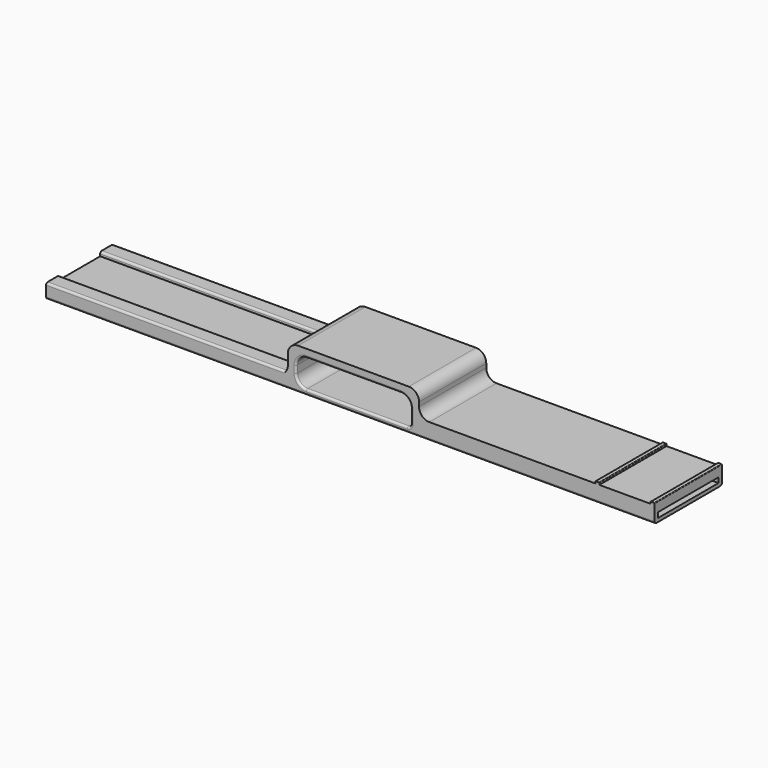
from build123d import *

# Parameters (mm, degrees)
SKETCH037_W                               = 2
SKETCH037_H                               = 41
EXTRUDE036_DEPTH                          = 1
SKETCH032_AS_DRAWN_W                      = 36.96
SKETCH032_AS_DRAWN_H                      = 13
EXTRUDE030_DEPTH                          = 2
EXTRUDE030_ONTO_SKETCH032_ROLL_ANGLE      = 0.005477
EXTRUDE030_ONTO_SKETCH032_PITCH_ANGLE     = -0.011215
EXTRUDE030_ONTO_SKETCH032_PLACEMENT_ANGLE = 89.994139
SKETCH031_W                               = 37
SKETCH031_H                               = 2.5
EXTRUDE029_DEPTH                          = 120
SKETCH030_W                               = 56
SKETCH030_H                               = 13.5
EXTRUDE028_DEPTH                          = 41
FILLET009_R                               = 5
FILLET010_R                               = 1.75
SKETCH036_W                               = 120
SKETCH036_H                               = 8
EXTRUDE035_DEPTH                          = 2
FILLET011_R                               = 1
FILLET012_R                               = 1
FILLET013_R                               = 0.25
FILLET014_R                               = 1


with BuildPart() as velcroborder:
    # Sketch037 → Extrude036 (new body)
    with BuildSketch(Plane.XY.offset(5.5)):
        with Locations((174, 26.5)):
            Rectangle(SKETCH037_W, SKETCH037_H)
        with Locations((147, 26.5)):
            Rectangle(SKETCH037_W, SKETCH037_H)
    extrude(amount=EXTRUDE036_DEPTH)


with BuildPart() as sensorcuts:
    # Sketch032 as drawn → Extrude030 (new)
    with BuildSketch(Plane.XY):
        with Locations((-0.07, -91)):
            Rectangle(SKETCH032_AS_DRAWN_W, SKETCH032_AS_DRAWN_H)
    extrude(amount=EXTRUDE030_DEPTH)


with BuildPart() as sensorcuts_1:
    # Extrude030 onto Sketch032 roll: moved
    add(sensorcuts.part.rotate(Axis((0, 0, 0), (1, 0, 0)), EXTRUDE030_ONTO_SKETCH032_ROLL_ANGLE))


with BuildPart() as sensorcuts_2:
    # Extrude030 onto Sketch032 pitch: moved
    add(sensorcuts_1.part.rotate(Axis((0, 0, 0), (0, 1, 0)), EXTRUDE030_ONTO_SKETCH032_PITCH_ANGLE))


with BuildPart() as sensorcuts_3:
    # Extrude030 onto Sketch032 placement: moved
    add(sensorcuts_2.part.moved(Location((50.768112, 26.489725, 2.608705))).rotate(Axis((50.768112, 26.489725, 2.608705), (0, 0, 1)), EXTRUDE030_ONTO_SKETCH032_PLACEMENT_ANGLE))


with BuildPart() as sensorcuts_4:
    # Extrude030 placement: moved
    add(sensorcuts_3.part.moved(Location((0, 0, -4))))


with BuildPart() as extrude029:
    # Sketch031 → Extrude029 (new body)
    with BuildSketch(Plane.YZ.offset(56)):
        with Locations((26.412533, 0.5)):
            Rectangle(SKETCH031_W, SKETCH031_H)
    extrude(amount=EXTRUDE029_DEPTH)


with BuildPart() as band003:
    # Sketch030 → Extrude028 (new body)
    with BuildSketch(Plane.XZ.offset(-6)):
        Polygon((175, 5.5), (60, 5.5), (60, 17.5), (-4, 17.5), (-4, 2.5), (-122, 2.5), (-122, -2.5), (175, -2.5), align=None)
        with Locations((28, 6.75)):
            Rectangle(SKETCH030_W, SKETCH030_H, mode=Mode.SUBTRACT)
    extrude(amount=-EXTRUDE028_DEPTH)

    # Cut002: cut Extrude029
    add(extrude029.part, mode=Mode.SUBTRACT)

    # Cut003: cut sensorCuts
    add(sensorcuts_4.part, mode=Mode.SUBTRACT)

    # Fillet009
    fillet009_edges = [band003.edges().sort_by_distance(p)[0] for p in [
        (60, 26.5, 5.5),
        (60, 26.5, 17.5),
        (-4, 26.5, 17.5),
        (-4, 26.5, 2.5),
        (0, 26.5, 0),
        (0, 26.5, 13.5),
        (56, 26.5, 13.5),
    ]]
    fillet(fillet009_edges, radius=FILLET009_R)

    # Fillet010
    fillet010_edges = [band003.edges().sort_by_distance(p)[0] for p in [
        (56, 6.956266, 0),
        (56, 45.956266, 0),
    ]]
    fillet(fillet010_edges, radius=FILLET010_R)


with BuildPart() as fillet014:
    # Sketch036 → Extrude035 (new body)
    with BuildSketch(Plane.XY.offset(2.5)):
        with Locations((-62, 43)):
            Rectangle(SKETCH036_W, SKETCH036_H)
        with Locations((-62, 10)):
            Rectangle(SKETCH036_W, SKETCH036_H)
    extrude(amount=EXTRUDE035_DEPTH)

    # Fusion011: union velcroBorder, band003
    add(velcroborder.part)
    add(band003.part)

    # Fillet011
    fillet011_edges = [fillet014.edges().sort_by_distance(p)[0] for p in [
        (56, 26.412533, 1.75),
    ]]
    fillet(fillet011_edges, radius=FILLET011_R)

    # Fillet012
    fillet012_edges = [fillet014.edges().sort_by_distance(p)[0] for p in [
        (26.5, 6, -2.5),
        (26.5, 47, -2.5),
        (-63.5, 6, 4.5),
        (-63.5, 47, 4.5),
        (-63.5, 39, 4.5),
        (-63.5, 14, 4.5),
    ]]
    fillet(fillet012_edges, radius=FILLET012_R)

    # Fillet013
    fillet013_edges = [fillet014.edges().sort_by_distance(p)[0] for p in [
        (175, 26.5, 6.5),
        (173, 26.5, 6.5),
        (148, 26.5, 6.5),
        (146, 26.5, 6.5),
    ]]
    fillet(fillet013_edges, radius=FILLET013_R)

    # Fillet014
    fillet014_edges = [fillet014.edges().sort_by_distance(p)[0] for p in [
        (28, 6, 13.5),
        (28, 47, 13.5),
    ]]
    fillet(fillet014_edges, radius=FILLET014_R)


solid = fillet014.part
